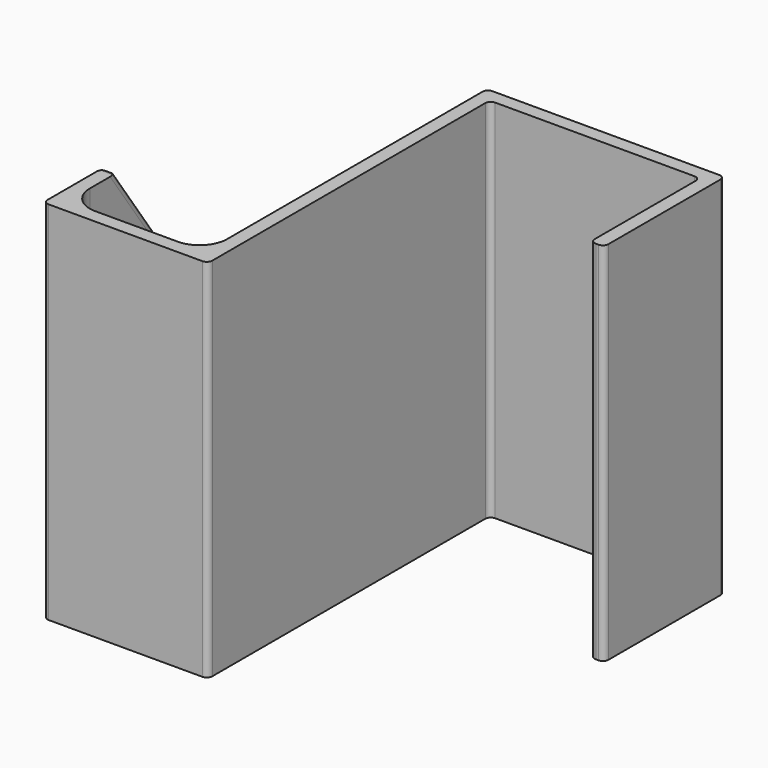
from build123d import *

# Parameters (mm, degrees)
F1_DEPTH = 40
F2_SIZE2 = 7.0020753821
F2_SIZE  = 10
F3_R     = 0.6
F4_R     = 3


with BuildPart() as f1:
    # F0 (on Top) → F1 (new body)
    with BuildSketch(Plane.XY):
        Polygon((9.6920941323, -33.465231495), (9.6920941323, 5.034768505), (32.6920941323, 5.034768505), (32.6920941323, -9.965231495), (34.1920941323, -9.965231495), (34.1920941323, 6.534768505), (8.1920941323, 6.534768505), (8.1920941323, -31.965231495), (-6.8079058677, -31.965231495), (-6.8079058677, -18.465231495), (-8.3079058677, -18.465231495), (-8.3079058677, -33.465231495), align=None)
    extrude(amount=F1_DEPTH)

    # F2
    f2_edges = [f1.edges().sort_by_distance(p)[0] for p in [
        (-7.557906, -18.465231, 40),
        (-7.557906, -18.465231, 0),
    ]]
    f2_side = f1.faces().sort_by_distance((-7.557906, -18.465231, 20))[0]
    chamfer(f2_edges, length=F2_SIZE, length2=F2_SIZE2, reference=f2_side)

    # F3
    f3_edges = [f1.edges().sort_by_distance(p)[0] for p in [
        (8.192094, 6.534769, 20),
        (9.692094, 5.034769, 20),
        (34.192094, -9.965231, 20),
        (32.692094, -9.965231, 20),
        (32.692094, 5.034769, 20),
        (34.192094, 6.534769, 20),
        (-6.807906, -18.465231, 20),
        (9.692094, -33.465231, 20),
        (-8.307906, -18.465231, 20),
        (-8.307906, -33.465231, 20),
        (-6.807906, -21.966269, 5),
        (-7.557906, -18.465231, 10),
        (-7.557906, -25.467307, 0),
        (-8.307906, -21.966269, 5),
        (-6.807906, -21.966269, 35),
        (-7.557906, -18.465231, 30),
        (-7.557906, -25.467307, 40),
        (-8.307906, -21.966269, 35),
    ]]
    fillet(f3_edges, radius=F3_R)

    # F4
    f4_edges = [f1.edges().sort_by_distance(p)[0] for p in [
        (8.192094, -31.965231, 20),
        (-6.807906, -31.965231, 20),
    ]]
    fillet(f4_edges, radius=F4_R)


solid = f1.part
